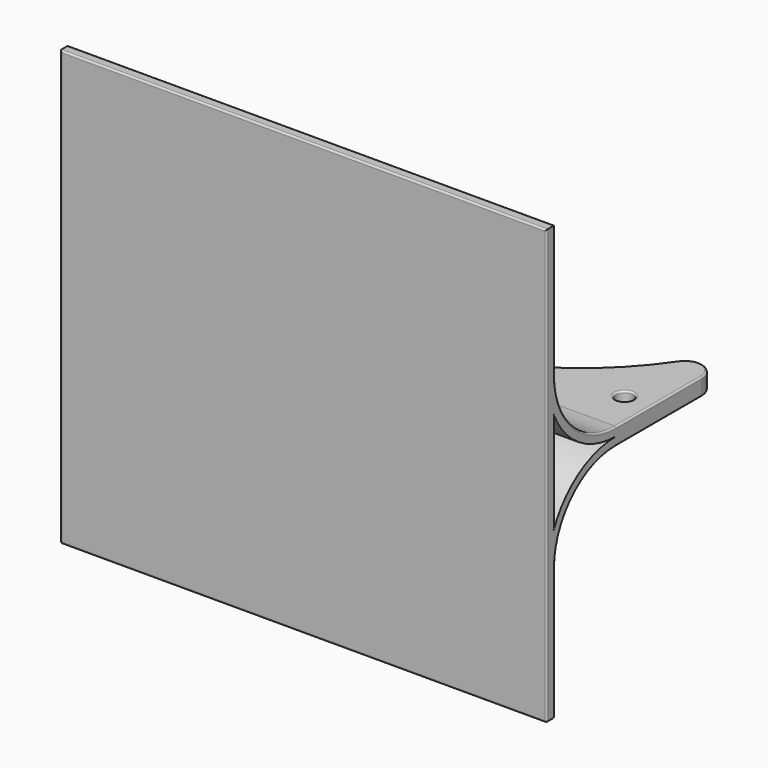
from build123d import *

# Parameters (mm, degrees)
F0_R     = 2.5
F1_DEPTH = 5
F3_DEPTH = 140
F4_DEPTH = 140.001
F5_R     = 5
F6_R     = 0.5


with BuildPart() as f1:
    # F0 (on Top) → F1 (new body)
    with BuildSketch(Plane.XY):
        with BuildLine():
            ThreePointArc((70, -22.410934831), (0, -73.5), (-70, -22.410934831))
            Line((-70, -22.410934831), (-70, -75))
            Line((-70, -75), (70, -75))
            Line((70, -75), (70, -22.410934831))
        make_face()
        with Locations((-62.25, -62.25)):
            Circle(F0_R, mode=Mode.SUBTRACT)
        with Locations((62.25, -62.25)):
            Circle(F0_R, mode=Mode.SUBTRACT)
    extrude(amount=F1_DEPTH)

    # F2 (on face) → F3 (join, through all)
    with BuildSketch(Plane(origin=(-70, 0, 0), x_dir=(0, -1, 0), z_dir=(-1, 0, 0))):
        with BuildLine():
            ThreePointArc((75, 0), (90.5563491861, -6.4436508139), (97, -22))
            Line((97, -22), (97, -60))
            Line((97, -60), (100, -60))
            Line((100, -60), (100, 65))
            Line((100, 65), (97, 65))
            Line((97, 65), (97, 27))
            ThreePointArc((97, 27), (90.5563491861, 11.4436508139), (75, 5))
            Line((75, 5), (75, 2.5))
            Line((75, 2.5), (75, 0))
        make_face()
        with BuildLine():
            ThreePointArc((97, -11.2180706736), (87.9632698711, -1.2104922076), (75, 2.5))
            ThreePointArc((75, 2.5), (87.9632698711, 6.2104922076), (97, 16.2180706736))
            Line((97, 16.2180706736), (97, -11.2180706736))
        make_face(mode=Mode.SUBTRACT)
        with BuildLine():
            ThreePointArc((97, 16.2180706736), (87.9632698711, 6.2104922076), (75, 2.5))
            ThreePointArc((75, 2.5), (87.9632698711, -1.2104922076), (97, -11.2180706736))
            Line((97, -11.2180706736), (97, 16.2180706736))
        make_face()
    extrude(amount=-F3_DEPTH)

    # F2 (on face) → F4 (cut, through all)
    with BuildSketch(Plane(origin=(-70, 0, 0), x_dir=(0, -1, 0), z_dir=(-1, 0, 0))):
        with BuildLine():
            ThreePointArc((97, 16.2180706736), (87.9632698711, 6.2104922076), (75, 2.5))
            ThreePointArc((75, 2.5), (87.9632698711, -1.2104922076), (97, -11.2180706736))
            Line((97, -11.2180706736), (97, 16.2180706736))
        make_face()
    extrude(amount=-F4_DEPTH, mode=Mode.SUBTRACT)

    # F5
    f5_edges = [f1.edges().sort_by_distance(p)[0] for p in [
        (70, -22.410935, 2.5),
        (-70, -22.410935, 2.5),
    ]]
    fillet(f5_edges, radius=F5_R)

    # F6
    f6_edges = [f1.edges().sort_by_distance(p)[0] for p in [
        (0, -73.5, 0),
        (0, -97, -60),
        (0, -100, -60),
        (-70, -98.5, -60),
        (70, -98.5, -60),
        (-70, -97, 2.5),
        (0, -97, 27),
        (0, -75, 5),
        (-70, -90.556349, 11.443651),
        (70, -90.556349, 11.443651),
        (0, -97, 65),
        (-70, -97, 46),
        (70, -97, 46),
        (70, -97, 2.5),
        (70, -100, 2.5),
        (0, -100, 65),
        (-70, -100, 2.5),
        (64.75, -62.25, 2.5),
        (59.75, -62.25, 0),
        (59.75, -62.25, 5),
        (-59.75, -62.25, 2.5),
        (-64.75, -62.25, 0),
        (-64.75, -62.25, 5),
    ]]
    fillet(f6_edges, radius=F6_R)


solid = f1.part
